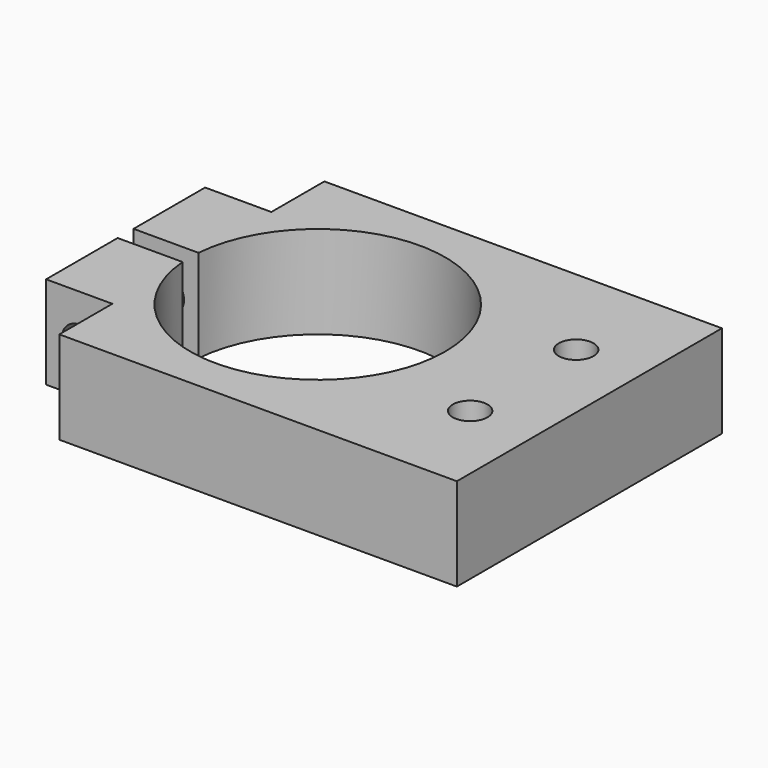
from build123d import *

# Parameters (mm, degrees)
F1_DEPTH = 14
F2_R     = 19.25
F2_R_2   = 2.625
F2_W     = 10
F2_H     = 10
F3_DEPTH = 25
F4_W     = 13.615144
F4_H     = 3
F5_DEPTH = 25
F6_R     = 2.625
F7_DEPTH = 40.001


with BuildPart() as f1:
    # F0 (on Top) → F1 (new body)
    with BuildSketch(Plane.XY):
        Polygon((10, 10), (10, 0), (70, 0), (70, 50), (0, 50), (0, 10), align=None)
    extrude(amount=F1_DEPTH)

    # F2 (on face) → F3 (cut)
    with BuildSketch(Plane.XY.offset(14)):
        with Locations((29, 25)):
            Circle(F2_R)
        with Locations((60, 35)):
            Circle(F2_R_2)
        with Locations((60, 15)):
            Circle(F2_R_2)
        with Locations((5, 45)):
            Rectangle(F2_W, F2_H)
    extrude(amount=-F3_DEPTH, mode=Mode.SUBTRACT)

    # F4 (on face) → F5 (cut)
    with BuildSketch(Plane.XY.offset(14)):
        with Locations((6.807572, 25)):
            Rectangle(F4_W, F4_H)
    extrude(amount=-F5_DEPTH, mode=Mode.SUBTRACT)

    # F6 (on face) → F7 (cut, through all)
    with BuildSketch(Plane.XZ.offset(-10)):
        with Locations((5, 7)):
            Circle(F6_R)
    extrude(amount=-F7_DEPTH, mode=Mode.SUBTRACT)


solid = f1.part
